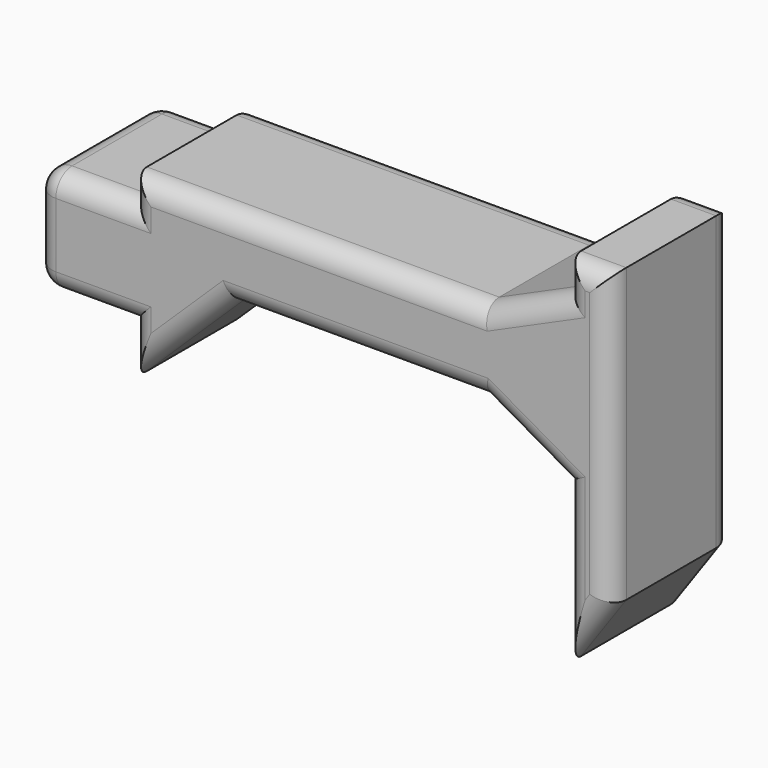
from build123d import *

# Parameters (mm, degrees)
F0_W     = 23.355342
F0_H     = 25.870533
F1_DEPTH = 37.6
F2_R     = 5


with BuildPart() as f1:
    # F0 (on Front) → F1 (new body)
    with BuildSketch(Plane.XZ):
        with Locations((-111.387018, -1.43725)):
            Rectangle(F0_W, F0_H)
        Polygon((-99.709347, 17.247025), (-99.709347, 11.498017), (-99.709347, -14.372516), (-99.709347, -26.948472), (-74.91675, -2.874502), (-13.114918, -2.874502), (7.006609, -14.372516), (7.006609, -53.896945), (18.145315, -38.087174), (18.145315, 33.775423), (7.006609, 33.775423), (7.006609, 26.229849), (-13.114918, 17.247025), align=None)
    extrude(amount=F1_DEPTH)

    # F2
    f2_edges = [f1.edges().sort_by_distance(p)[0] for p in [
        (-99.709347, -37.6, -20.660494),
        (-87.313049, -37.6, -14.911487),
        (-44.015834, -37.6, -2.874502),
        (-3.054155, -37.6, -8.623509),
        (7.006609, -37.6, -34.134731),
        (12.575962, -37.6, -45.99206),
        (18.145315, -37.6, -2.155876),
        (12.575962, -37.6, 33.775423),
        (7.006609, -37.6, 30.002636),
        (-3.054155, -37.6, 21.738437),
        (-56.412132, -37.6, 17.247025),
        (-99.709347, -37.6, 14.372521),
        (-111.387018, -37.6, 11.498017),
        (-123.064689, -37.6, -1.43725),
        (-111.387018, -37.6, -14.372516),
        (-99.709347, 0, 14.372521),
        (-111.387018, 0, 11.498017),
        (-123.064689, 0, -1.43725),
        (-111.387018, 0, -14.372516),
        (-99.709347, 0, -20.660494),
        (-87.313049, 0, -14.911487),
        (-44.015834, 0, -2.874502),
        (-3.054155, 0, -8.623509),
        (7.006609, 0, -34.134731),
        (12.575962, 0, -45.99206),
        (18.145315, 0, -2.155876),
        (12.575962, 0, 33.775423),
        (7.006609, 0, 30.002636),
        (-3.054155, 0, 21.738437),
        (-56.412132, 0, 17.247025),
        (-123.064689, -18.8, 11.498017),
        (-123.064689, -18.8, -14.372516),
    ]]
    fillet(f2_edges, radius=F2_R)


solid = f1.part
